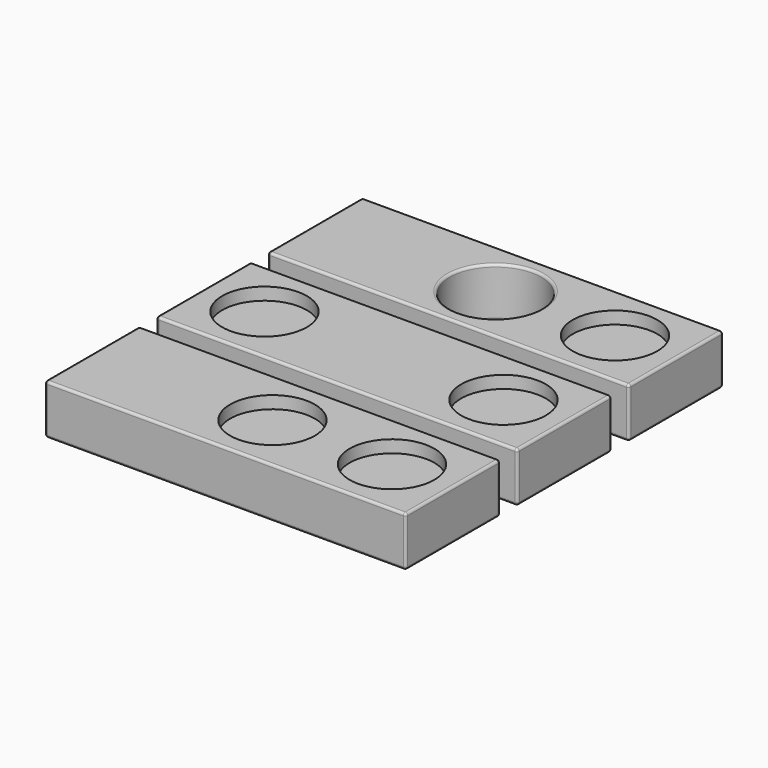
from build123d import *

# Parameters (mm, degrees)
F0_W     = 72.5
F0_H     = 23.7
F0_R     = 9.2
F1_DEPTH = 10
F0_R_2   = 8.5
F2_DEPTH = 2.5
F3_R     = 8.5
F4_DEPTH = 2.5
F5_R     = 0.5
F5_2_R   = 0.5
F5_3_R   = 0.5
F5_4_R   = 0.5
F5_5_R   = 0.5
F5_6_R   = 0.5
F6_R     = 0.5
F6_2_R   = 0.5
F6_3_R   = 0.5
F6_4_R   = 0.5


with BuildPart() as f1:
    # F0 (on Top) → F1 (new body)
    with BuildSketch(Plane.XY):
        with Locations((36.25, -11.85)):
            Rectangle(F0_W, F0_H)
        with Locations((12.25, -11.85)):
            Circle(F0_R, mode=Mode.SUBTRACT)
        with Locations((36.25, -11.85)):
            Circle(F0_R, mode=Mode.SUBTRACT)
    extrude(amount=F1_DEPTH)


with BuildPart() as f1b:
    # F0 (on Top) → F1, piece 2 (new body)
    with BuildSketch(Plane.XY):
        with Locations((36.25, -39.85)):
            Rectangle(F0_W, F0_H)
        with Locations((12.25, -39.85)):
            Circle(F0_R, mode=Mode.SUBTRACT)
        with Locations((36.25, -39.85)):
            Circle(F0_R_2, mode=Mode.SUBTRACT)
        with Locations((36.25, -39.85)):
            Circle(F0_R_2)
    extrude(amount=F1_DEPTH)


with BuildPart() as f1c:
    # F0 (on Top) → F1, piece 3 (new body)
    with BuildSketch(Plane.XY):
        with Locations((36.25, -67.85)):
            Rectangle(F0_W, F0_H)
        with Locations((12.25, -67.85)):
            Circle(F0_R, mode=Mode.SUBTRACT)
        with Locations((36.25, -67.85)):
            Circle(F0_R_2, mode=Mode.SUBTRACT)
        with Locations((36.25, -67.85)):
            Circle(F0_R_2)
    extrude(amount=F1_DEPTH)


with BuildPart() as f1d:
    # F0 (on Top) → F1, piece 4 (new body)
    with BuildSketch(Plane.XY):
        with Locations((36.25, -95.85)):
            Rectangle(F0_W, F0_H)
        with Locations((12.25, -95.85)):
            Circle(F0_R_2, mode=Mode.SUBTRACT)
        with Locations((36.25, -95.85)):
            Circle(F0_R, mode=Mode.SUBTRACT)
        with Locations((12.25, -95.85)):
            Circle(F0_R_2)
    extrude(amount=F1_DEPTH)


with BuildPart() as f1e:
    # F0 (on Top) → F1, piece 5 (new body)
    with BuildSketch(Plane.XY):
        with Locations((36.25, -123.85)):
            Rectangle(F0_W, F0_H)
        with Locations((36.25, -123.85)):
            Circle(F0_R_2, mode=Mode.SUBTRACT)
        with Locations((36.25, -123.85)):
            Circle(F0_R_2)
    extrude(amount=F1_DEPTH)


with BuildPart() as f1f:
    # F0 (on Top) → F1, piece 6 (new body)
    with BuildSketch(Plane.XY):
        with Locations((36.25, -151.85)):
            Rectangle(F0_W, F0_H)
        with Locations((12.25, -151.85)):
            Circle(F0_R_2, mode=Mode.SUBTRACT)
        with Locations((12.25, -151.85)):
            Circle(F0_R_2)
    extrude(amount=F1_DEPTH)


with BuildPart() as f2_tool:
    # F0 (on Top) → F2 (new body)
    with BuildSketch(Plane.XY):
        with Locations((12.25, -151.85)):
            Circle(F0_R_2)
        with Locations((36.25, -123.85)):
            Circle(F0_R_2)
        with Locations((12.25, -95.85)):
            Circle(F0_R_2)
        with Locations((36.25, -67.85)):
            Circle(F0_R_2)
        with Locations((36.25, -39.85)):
            Circle(F0_R_2)
    extrude(amount=F2_DEPTH)


with BuildPart() as f1b_1:
    add(f1b.part)

    # F2: cut by f2_tool
    add(f2_tool.part, mode=Mode.SUBTRACT)


with BuildPart() as f1c_1:
    add(f1c.part)

    # F2: cut by f2_tool
    add(f2_tool.part, mode=Mode.SUBTRACT)


with BuildPart() as f1d_1:
    add(f1d.part)

    # F2: cut by f2_tool
    add(f2_tool.part, mode=Mode.SUBTRACT)


with BuildPart() as f1e_1:
    add(f1e.part)

    # F2: cut by f2_tool
    add(f2_tool.part, mode=Mode.SUBTRACT)


with BuildPart() as f1f_1:
    add(f1f.part)

    # F2: cut by f2_tool
    add(f2_tool.part, mode=Mode.SUBTRACT)


with BuildPart() as f4_tool:
    # F3 (on face) → F4 (new body)
    with BuildSketch(Plane.XY.offset(10)):
        with Locations((12.25, -123.85)):
            Circle(F3_R)
        with Locations((36.25, -151.85)):
            Circle(F3_R)
        with Locations((60.25, -151.85)):
            Circle(F3_R)
        with Locations((60.25, -123.85)):
            Circle(F3_R)
        with Locations((60.25, -95.85)):
            Circle(F3_R)
        with Locations((60.25, -67.85)):
            Circle(F3_R)
        with Locations((60.25, -39.85)):
            Circle(F3_R)
        with Locations((60.25, -11.85)):
            Circle(F3_R)
    extrude(amount=-F4_DEPTH)


with BuildPart() as f1_1:
    add(f1.part)

    # F4: cut by f4_tool
    add(f4_tool.part, mode=Mode.SUBTRACT)

    # F5#6
    f5_6_edges = [f1_1.edges().sort_by_distance(p)[0] for p in [
        (72.5, -23.7, 5),
        (72.5, 0, 5),
        (72.5, -11.85, 0),
        (72.5, -11.85, 10),
        (0, 0, 5),
        (36.25, 0, 0),
        (36.25, 0, 10),
        (0, -23.7, 5),
        (0, -11.85, 0),
        (0, -11.85, 10),
        (36.25, -23.7, 0),
        (36.25, -23.7, 10),
    ]]
    fillet(f5_6_edges, radius=F5_6_R)

    # F6#2
    f6_2_edges = [f1_1.edges().sort_by_distance(p)[0] for p in [
        (21.45, -11.85, 5),
        (3.05, -11.85, 0),
        (3.05, -11.85, 10),
        (45.45, -11.85, 5),
        (27.05, -11.85, 0),
        (27.05, -11.85, 10),
    ]]
    fillet(f6_2_edges, radius=F6_2_R)


with BuildPart() as f1b_2:
    add(f1b_1.part)

    # F4: cut by f4_tool
    add(f4_tool.part, mode=Mode.SUBTRACT)

    # F5#5
    f5_5_edges = [f1b_2.edges().sort_by_distance(p)[0] for p in [
        (72.5, -51.7, 5),
        (72.5, -28, 5),
        (72.5, -39.85, 0),
        (72.5, -39.85, 10),
        (0, -28, 5),
        (0, -51.7, 5),
        (0, -39.85, 0),
        (0, -39.85, 10),
        (36.25, -28, 0),
        (36.25, -28, 10),
        (36.25, -51.7, 0),
        (36.25, -51.7, 10),
    ]]
    fillet(f5_5_edges, radius=F5_5_R)

    # F6
    f6_edges = [f1b_2.edges().sort_by_distance(p)[0] for p in [
        (21.45, -39.85, 5),
        (3.05, -39.85, 0),
        (3.05, -39.85, 10),
    ]]
    fillet(f6_edges, radius=F6_R)


with BuildPart() as f1c_2:
    add(f1c_1.part)

    # F4: cut by f4_tool
    add(f4_tool.part, mode=Mode.SUBTRACT)

    # F5#4
    f5_4_edges = [f1c_2.edges().sort_by_distance(p)[0] for p in [
        (72.5, -79.7, 5),
        (72.5, -56, 5),
        (72.5, -67.85, 0),
        (72.5, -67.85, 10),
        (0, -56, 5),
        (0, -79.7, 5),
        (0, -67.85, 0),
        (0, -67.85, 10),
        (36.25, -56, 0),
        (36.25, -56, 10),
        (36.25, -79.7, 0),
        (36.25, -79.7, 10),
    ]]
    fillet(f5_4_edges, radius=F5_4_R)

    # F6#3
    f6_3_edges = [f1c_2.edges().sort_by_distance(p)[0] for p in [
        (21.45, -67.85, 5),
        (3.05, -67.85, 0),
        (3.05, -67.85, 10),
    ]]
    fillet(f6_3_edges, radius=F6_3_R)


with BuildPart() as f1d_2:
    add(f1d_1.part)

    # F4: cut by f4_tool
    add(f4_tool.part, mode=Mode.SUBTRACT)

    # F5#3
    f5_3_edges = [f1d_2.edges().sort_by_distance(p)[0] for p in [
        (72.5, -107.7, 5),
        (72.5, -84, 5),
        (72.5, -95.85, 0),
        (72.5, -95.85, 10),
        (0, -84, 5),
        (0, -107.7, 5),
        (0, -95.85, 0),
        (0, -95.85, 10),
        (36.25, -84, 0),
        (36.25, -84, 10),
        (36.25, -107.7, 0),
        (36.25, -107.7, 10),
    ]]
    fillet(f5_3_edges, radius=F5_3_R)

    # F6#4
    f6_4_edges = [f1d_2.edges().sort_by_distance(p)[0] for p in [
        (45.45, -95.85, 5),
        (27.05, -95.85, 0),
        (27.05, -95.85, 10),
    ]]
    fillet(f6_4_edges, radius=F6_4_R)


with BuildPart() as f1e_2:
    add(f1e_1.part)

    # F4: cut by f4_tool
    add(f4_tool.part, mode=Mode.SUBTRACT)

    # F5#2
    f5_2_edges = [f1e_2.edges().sort_by_distance(p)[0] for p in [
        (72.5, -135.7, 5),
        (72.5, -112, 5),
        (72.5, -123.85, 0),
        (72.5, -123.85, 10),
        (0, -112, 5),
        (0, -135.7, 5),
        (0, -123.85, 0),
        (0, -123.85, 10),
        (36.25, -112, 0),
        (36.25, -112, 10),
        (36.25, -135.7, 0),
        (36.25, -135.7, 10),
    ]]
    fillet(f5_2_edges, radius=F5_2_R)


with BuildPart() as f1f_2:
    add(f1f_1.part)

    # F4: cut by f4_tool
    add(f4_tool.part, mode=Mode.SUBTRACT)

    # F5
    f5_edges = [f1f_2.edges().sort_by_distance(p)[0] for p in [
        (0, -163.7, 5),
        (72.5, -163.7, 5),
        (36.25, -163.7, 0),
        (36.25, -163.7, 10),
        (72.5, -140, 5),
        (72.5, -151.85, 0),
        (72.5, -151.85, 10),
        (0, -140, 5),
        (0, -151.85, 0),
        (0, -151.85, 10),
        (36.25, -140, 0),
        (36.25, -140, 10),
    ]]
    fillet(f5_edges, radius=F5_R)


solid = Compound([f1d_2.part, f1e_2.part, f1f_2.part])
